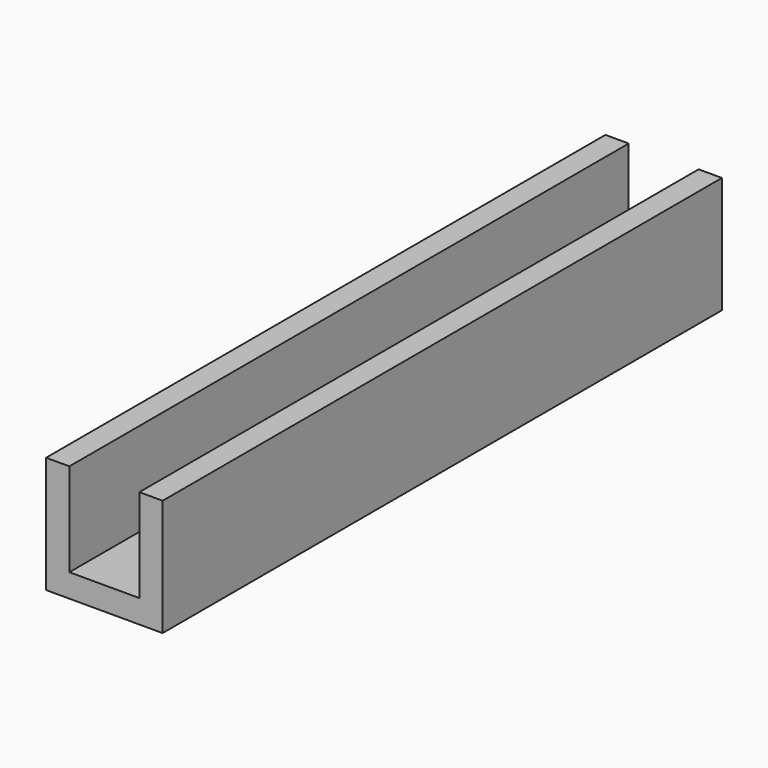
from build123d import *

# Parameters (mm, degrees)
F0_W     = 10
F0_H     = 10
F1_DEPTH = 2
F2_W     = 2
F2_H     = 10
F3_DEPTH = 8
F5_DEPTH = 50


with BuildPart() as f1:
    # F0 (on Top) → F1 (new body)
    with BuildSketch(Plane.XY):
        Rectangle(F0_W, F0_H)
    extrude(amount=F1_DEPTH)

    # F2 (on face) → F3 (join)
    with BuildSketch(Plane.XY.offset(2)):
        with Locations((-4, 0)):
            Rectangle(F2_W, F2_H)
        with Locations((4, 0)):
            Rectangle(F2_W, F2_H)
    extrude(amount=F3_DEPTH)

    # F4 (on face) → F5 (join)
    with BuildSketch(Plane(origin=(0, 5, 0), x_dir=(-1, 0, 0), z_dir=(0, 1, 0))):
        Polygon((-3, 10), (-5, 10), (-5, 0), (5, 0), (5, 10), (3, 10), (3, 2), (-3, 2), align=None)
    extrude(amount=F5_DEPTH)


solid = f1.part
